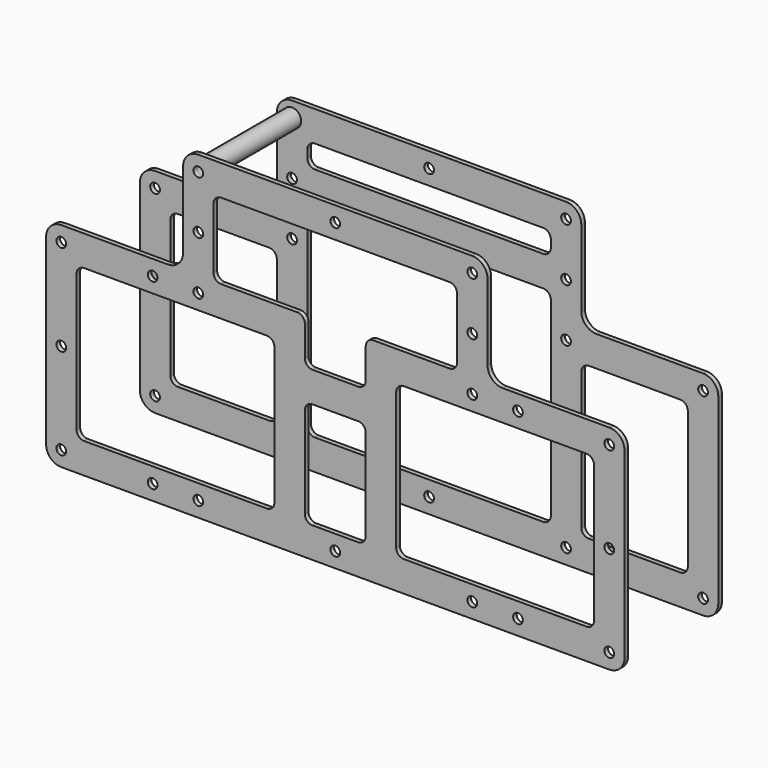
from build123d import *

# Parameters (mm, degrees)
F3_START      = 18.5
F2_R          = 1.6
F3_DEPTH      = 1.5
F5_START      = -18.5
F4_R          = 3
F4_R_2        = 1.6
F5_DEPTH      = 1.5
F6_DEPTH      = 18.5
F6_DEPTH_BACK = 18.5
F7_DEPTH      = 20.001
F7_DEPTH_BACK = 20.001


with BuildPart() as f3:
    # F2 (on Front) → F3 (new body)
    with BuildSketch(Plane.XZ.offset(F3_START)):
        with BuildLine():
            ThreePointArc((-90, 60), (-93.5355339059, 58.5355339059), (-95, 55))
            Line((-95, 55), (-95, -5))
            ThreePointArc((-95, -5), (-93.5355339059, -8.5355339059), (-90, -10))
            Line((-90, -10), (90, -10))
            ThreePointArc((90, -10), (93.5355339059, -8.5355339059), (95, -5))
            Line((95, -5), (95, 55))
            ThreePointArc((95, 55), (93.5355339059, 58.5355339059), (90, 60))
            Line((90, 60), (55, 60))
            ThreePointArc((55, 60), (51.4644660941, 61.4644660941), (50, 65))
            Line((50, 65), (50, 90))
            ThreePointArc((50, 90), (48.5355339059, 93.5355339059), (45, 95))
            Line((45, 95), (-45, 95))
            ThreePointArc((-45, 95), (-48.5355339059, 93.5355339059), (-50, 90))
            Line((-50, 90), (-50, 65))
            ThreePointArc((-50, 65), (-51.4644660941, 61.4644660941), (-55, 60))
            Line((-55, 60), (-90, 60))
        make_face()
        with Locations((-60, -5)):
            Circle(F2_R, mode=Mode.SUBTRACT)
        with Locations((-90, 25)):
            Circle(F2_R, mode=Mode.SUBTRACT)
        with BuildLine():
            ThreePointArc((-85, 47.5), (-84.267766953, 49.267766953), (-82.5, 50))
            Line((-82.5, 50), (-22.5, 50))
            ThreePointArc((-22.5, 50), (-20.732233047, 49.267766953), (-20, 47.5))
            Line((-20, 47.5), (-20, 2.5))
            ThreePointArc((-20, 2.5), (-20.732233047, 0.732233047), (-22.5, 0))
            Line((-22.5, 0), (-82.5, 0))
            ThreePointArc((-82.5, 0), (-84.267766953, 0.732233047), (-85, 2.5))
            Line((-85, 2.5), (-85, 47.5))
        make_face(mode=Mode.SUBTRACT)
        with Locations((60, -5)):
            Circle(F2_R, mode=Mode.SUBTRACT)
        with BuildLine():
            ThreePointArc((-10, 32.5), (-9.267766953, 34.267766953), (-7.5, 35))
            Line((-7.5, 35), (7.5, 35))
            ThreePointArc((7.5, 35), (9.267766953, 34.267766953), (10, 32.5))
            Line((10, 32.5), (10, 2.5))
            ThreePointArc((10, 2.5), (9.267766953, 0.732233047), (7.5, 0))
            Line((7.5, 0), (-7.5, 0))
            ThreePointArc((-7.5, 0), (-9.267766953, 0.732233047), (-10, 2.5))
            Line((-10, 2.5), (-10, 32.5))
        make_face(mode=Mode.SUBTRACT)
        with BuildLine():
            ThreePointArc((85, 2.5), (84.267766953, 0.732233047), (82.5, 0))
            Line((82.5, 0), (22.5, 0))
            ThreePointArc((22.5, 0), (20.732233047, 0.732233047), (20, 2.5))
            Line((20, 2.5), (20, 47.5))
            ThreePointArc((20, 47.5), (20.732233047, 49.267766953), (22.5, 50))
            Line((22.5, 50), (82.5, 50))
            ThreePointArc((82.5, 50), (84.267766953, 49.267766953), (85, 47.5))
            Line((85, 47.5), (85, 2.5))
        make_face(mode=Mode.SUBTRACT)
        with Locations((90, 25)):
            Circle(F2_R, mode=Mode.SUBTRACT)
        with Locations((-60, 55)):
            Circle(F2_R, mode=Mode.SUBTRACT)
        with BuildLine():
            Line((-10, 47.5), (-10, 57.5))
            ThreePointArc((-10, 57.5), (-10.732233047, 59.267766953), (-12.5, 60))
            Line((-12.5, 60), (-37.5, 60))
            ThreePointArc((-37.5, 60), (-39.267766953, 60.732233047), (-40, 62.5))
            Line((-40, 62.5), (-40, 82.5))
            ThreePointArc((-40, 82.5), (-39.267766953, 84.267766953), (-37.5, 85))
            Line((-37.5, 85), (37.5, 85))
            ThreePointArc((37.5, 85), (39.267766953, 84.267766953), (40, 82.5))
            Line((40, 82.5), (40, 62.5))
            ThreePointArc((40, 62.5), (39.267766953, 60.732233047), (37.5, 60))
            Line((37.5, 60), (12.5, 60))
            ThreePointArc((12.5, 60), (10.732233047, 59.267766953), (10, 57.5))
            Line((10, 57.5), (10, 47.5))
            ThreePointArc((10, 47.5), (9.267766953, 45.732233047), (7.5, 45))
            Line((7.5, 45), (-7.5, 45))
            ThreePointArc((-7.5, 45), (-9.267766953, 45.732233047), (-10, 47.5))
        make_face(mode=Mode.SUBTRACT)
        with Locations((60, 55)):
            Circle(F2_R, mode=Mode.SUBTRACT)
    extrude(amount=F3_DEPTH)


with BuildPart() as f5:
    # F4 (on Front) → F5 (new body)
    with BuildSketch(Plane.XZ.offset(F5_START)):
        with BuildLine():
            ThreePointArc((-45, 95), (-48.5355339059, 93.5355339059), (-50, 90))
            Line((-50, 90), (-50, 65))
            ThreePointArc((-50, 65), (-51.4644660941, 61.4644660941), (-55, 60))
            Line((-55, 60), (-90, 60))
            ThreePointArc((-90, 60), (-93.5355339059, 58.5355339059), (-95, 55))
            Line((-95, 55), (-95, -5))
            ThreePointArc((-95, -5), (-93.5355339059, -8.5355339059), (-90, -10))
            Line((-90, -10), (90, -10))
            ThreePointArc((90, -10), (93.5355339059, -8.5355339059), (95, -5))
            Line((95, -5), (95, 55))
            ThreePointArc((95, 55), (93.5355339059, 58.5355339059), (90, 60))
            Line((90, 60), (55, 60))
            ThreePointArc((55, 60), (51.4644660941, 61.4644660941), (50, 65))
            Line((50, 65), (50, 90))
            ThreePointArc((50, 90), (48.5355339059, 93.5355339059), (45, 95))
            Line((45, 95), (-45, 95))
        make_face()
        with Locations((-90, -5)):
            Circle(F4_R, mode=Mode.SUBTRACT)
        with Locations((-45, -5)):
            Circle(F4_R, mode=Mode.SUBTRACT)
        with BuildLine():
            Line((-85, 2.5), (-85, 47.5))
            ThreePointArc((-85, 47.5), (-84.267766953, 49.267766953), (-82.5, 50))
            Line((-82.5, 50), (-52.5, 50))
            ThreePointArc((-52.5, 50), (-50.732233047, 49.267766953), (-50, 47.5))
            Line((-50, 47.5), (-50, 2.5))
            ThreePointArc((-50, 2.5), (-50.732233047, 0.732233047), (-52.5, 0))
            Line((-52.5, 0), (-82.5, 0))
            ThreePointArc((-82.5, 0), (-84.267766953, 0.732233047), (-85, 2.5))
        make_face(mode=Mode.SUBTRACT)
        with Locations((0, -5)):
            Circle(F4_R, mode=Mode.SUBTRACT)
        with Locations((45, -5)):
            Circle(F4_R, mode=Mode.SUBTRACT)
        with Locations((90, -5)):
            Circle(F4_R, mode=Mode.SUBTRACT)
        with BuildLine():
            ThreePointArc((37.5, 67.5), (39.267766953, 66.767766953), (40, 65))
            Line((40, 65), (40, 2.5))
            ThreePointArc((40, 2.5), (39.267766953, 0.732233047), (37.5, 0))
            Line((37.5, 0), (-37.5, 0))
            ThreePointArc((-37.5, 0), (-39.267766953, 0.732233047), (-40, 2.5))
            Line((-40, 2.5), (-40, 65))
            ThreePointArc((-40, 65), (-39.267766953, 66.767766953), (-37.5, 67.5))
            Line((-37.5, 67.5), (37.5, 67.5))
        make_face(mode=Mode.SUBTRACT)
        with BuildLine():
            ThreePointArc((82.5, 50), (84.267766953, 49.267766953), (85, 47.5))
            Line((85, 47.5), (85, 2.5))
            ThreePointArc((85, 2.5), (84.267766953, 0.732233047), (82.5, 0))
            Line((82.5, 0), (52.5, 0))
            ThreePointArc((52.5, 0), (50.732233047, 0.732233047), (50, 2.5))
            Line((50, 2.5), (50, 47.5))
            ThreePointArc((50, 47.5), (50.732233047, 49.267766953), (52.5, 50))
            Line((52.5, 50), (82.5, 50))
        make_face(mode=Mode.SUBTRACT)
        with Locations((-90, 55)):
            Circle(F4_R, mode=Mode.SUBTRACT)
        with Locations((-45, 55)):
            Circle(F4_R, mode=Mode.SUBTRACT)
        with Locations((-45, 72.5)):
            Circle(F4_R, mode=Mode.SUBTRACT)
        with Locations((-45, 90)):
            Circle(F4_R, mode=Mode.SUBTRACT)
        with Locations((45, 55)):
            Circle(F4_R, mode=Mode.SUBTRACT)
        with Locations((90, 55)):
            Circle(F4_R, mode=Mode.SUBTRACT)
        with BuildLine():
            ThreePointArc((-40, 82.5), (-39.267766953, 84.267766953), (-37.5, 85))
            Line((-37.5, 85), (37.5, 85))
            ThreePointArc((37.5, 85), (39.267766953, 84.267766953), (40, 82.5))
            Line((40, 82.5), (40, 80))
            ThreePointArc((40, 80), (39.267766953, 78.232233047), (37.5, 77.5))
            Line((37.5, 77.5), (-37.5, 77.5))
            ThreePointArc((-37.5, 77.5), (-39.267766953, 78.232233047), (-40, 80))
            Line((-40, 80), (-40, 82.5))
        make_face(mode=Mode.SUBTRACT)
        with Locations((45, 72.5)):
            Circle(F4_R, mode=Mode.SUBTRACT)
        with Locations((0, 90)):
            Circle(F4_R, mode=Mode.SUBTRACT)
        with Locations((45, 90)):
            Circle(F4_R, mode=Mode.SUBTRACT)
        with Locations((-45, -5)):
            Circle(F4_R)
        with Locations((-45, -5)):
            Circle(F4_R_2, mode=Mode.SUBTRACT)
        with Locations((-90, -5)):
            Circle(F4_R)
        with Locations((-90, -5)):
            Circle(F4_R_2, mode=Mode.SUBTRACT)
        with Locations((90, -5)):
            Circle(F4_R)
        with Locations((90, -5)):
            Circle(F4_R_2, mode=Mode.SUBTRACT)
        with Locations((45, -5)):
            Circle(F4_R)
        with Locations((45, -5)):
            Circle(F4_R_2, mode=Mode.SUBTRACT)
        with Locations((0, -5)):
            Circle(F4_R)
        with Locations((0, -5)):
            Circle(F4_R_2, mode=Mode.SUBTRACT)
        with Locations((0, 90)):
            Circle(F4_R)
        with Locations((0, 90)):
            Circle(F4_R_2, mode=Mode.SUBTRACT)
        with Locations((-45, 90)):
            Circle(F4_R)
        with Locations((-45, 90)):
            Circle(F4_R_2, mode=Mode.SUBTRACT)
        with Locations((45, 90)):
            Circle(F4_R)
        with Locations((45, 90)):
            Circle(F4_R_2, mode=Mode.SUBTRACT)
        with Locations((-45, 72.5)):
            Circle(F4_R)
        with Locations((-45, 72.5)):
            Circle(F4_R_2, mode=Mode.SUBTRACT)
        with Locations((-90, 55)):
            Circle(F4_R)
        with Locations((-90, 55)):
            Circle(F4_R_2, mode=Mode.SUBTRACT)
        with Locations((-45, 55)):
            Circle(F4_R)
        with Locations((-45, 55)):
            Circle(F4_R_2, mode=Mode.SUBTRACT)
        with Locations((45, 55)):
            Circle(F4_R)
        with Locations((45, 55)):
            Circle(F4_R_2, mode=Mode.SUBTRACT)
        with Locations((90, 55)):
            Circle(F4_R)
        with Locations((90, 55)):
            Circle(F4_R_2, mode=Mode.SUBTRACT)
        with Locations((45, 72.5)):
            Circle(F4_R)
        with Locations((45, 72.5)):
            Circle(F4_R_2, mode=Mode.SUBTRACT)
        with Locations((-45, -5)):
            Circle(F4_R_2)
        with Locations((90, -5)):
            Circle(F4_R_2)
        with Locations((-90, -5)):
            Circle(F4_R_2)
        with Locations((0, -5)):
            Circle(F4_R_2)
        with Locations((45, -5)):
            Circle(F4_R_2)
        with Locations((45, 90)):
            Circle(F4_R_2)
        with Locations((0, 90)):
            Circle(F4_R_2)
        with Locations((-45, 90)):
            Circle(F4_R_2)
        with Locations((-45, 55)):
            Circle(F4_R_2)
        with Locations((-90, 55)):
            Circle(F4_R_2)
        with Locations((-45, 72.5)):
            Circle(F4_R_2)
        with Locations((45, 72.5)):
            Circle(F4_R_2)
        with Locations((45, 55)):
            Circle(F4_R_2)
        with Locations((90, 55)):
            Circle(F4_R_2)
    extrude(amount=-F5_DEPTH)


with BuildPart() as f6:
    # F4 (on Front) → F6 (new body, two sides)
    with BuildSketch(Plane.XZ) as f6_sk:
        with Locations((-45, 90)):
            Circle(F4_R)
        with Locations((-45, 90)):
            Circle(F4_R_2, mode=Mode.SUBTRACT)
    extrude(amount=F6_DEPTH)
    extrude(f6_sk.sketch, amount=-F6_DEPTH_BACK)


with BuildPart() as f7_tool:
    # F4 (on Front) → F7 (new body, two sides)
    with BuildSketch(Plane.XZ) as f7_sk:
        with Locations((-90, -5)):
            Circle(F4_R_2)
        with Locations((-45, -5)):
            Circle(F4_R_2)
        with Locations((0, -5)):
            Circle(F4_R_2)
        with Locations((45, -5)):
            Circle(F4_R_2)
        with Locations((90, -5)):
            Circle(F4_R_2)
        with Locations((45, 55)):
            Circle(F4_R_2)
        with Locations((90, 55)):
            Circle(F4_R_2)
        with Locations((45, 72.5)):
            Circle(F4_R_2)
        with Locations((45, 90)):
            Circle(F4_R_2)
        with Locations((0, 90)):
            Circle(F4_R_2)
        with Locations((-45, 90)):
            Circle(F4_R_2)
        with Locations((-45, 72.5)):
            Circle(F4_R_2)
        with Locations((-45, 55)):
            Circle(F4_R_2)
        with Locations((-90, 55)):
            Circle(F4_R_2)
    extrude(amount=F7_DEPTH)
    extrude(f7_sk.sketch, amount=-F7_DEPTH_BACK)


with BuildPart() as f3_1:
    add(f3.part)

    # F7: cut by f7_tool
    add(f7_tool.part, mode=Mode.SUBTRACT)


with BuildPart() as f5_1:
    add(f5.part)

    # F7: cut by f7_tool
    add(f7_tool.part, mode=Mode.SUBTRACT)


solid = Compound([f6.part, f3_1.part, f5_1.part])
